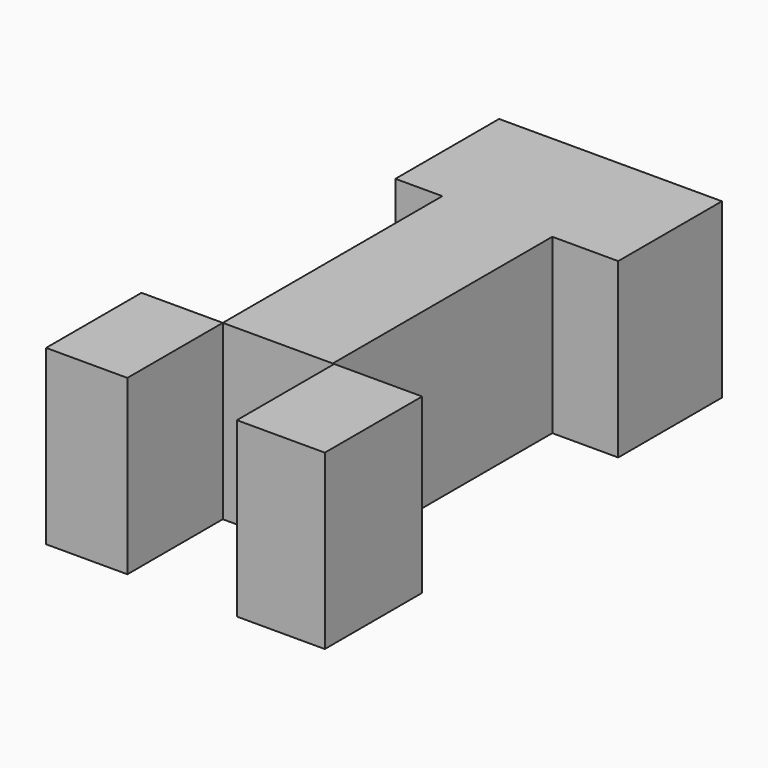
from build123d import *

# Parameters (mm, degrees)
F0_W     = 11.7555651814
F0_H     = 17.2415003181
F1_DEPTH = 25
F0_W_2   = 15.900246799
F0_H_2   = 39.6757572889
F0_H_3   = 0.6575286388
F0_W_3   = 12.7134267241
F0_H_4   = 17.5898130983


with BuildPart() as f1:
    # F0 (on Top) → F1 (new body)
    with BuildSketch(Plane.XY):
        with Locations((-5.8777825907, -8.620750159)):
            Rectangle(F0_W, F0_H)
    extrude(amount=F1_DEPTH)


with BuildPart() as f1b:
    # F0 (on Top) → F1, piece 2 (new body)
    with BuildSketch(Plane.XY):
        with Locations((7.9501233995, 19.8378786445)):
            Rectangle(F0_W_2, F0_H_2)
        Polygon((-6.7844577134, 39.6757572889), (0, 39.6757572889), (0, 40.3332859278), (15.900246799, 40.3332859278), (15.900246799, 39.6757572889), (25.4343990237, 39.6757572889), (25.4343990237, 58.4152974188), (-6.7844577134, 58.4152974188), align=None)
        with Locations((7.9501233995, 40.0045216084)):
            Rectangle(F0_W_2, F0_H_3)
    extrude(amount=F1_DEPTH)


with BuildPart() as f1c:
    # F0 (on Top) → F1, piece 3 (new body)
    with BuildSketch(Plane.XY):
        with Locations((22.4662022665, -8.7949065492)):
            Rectangle(F0_W_3, F0_H_4)
    extrude(amount=F1_DEPTH)


solid = Compound([f1.part, f1b.part, f1c.part])
